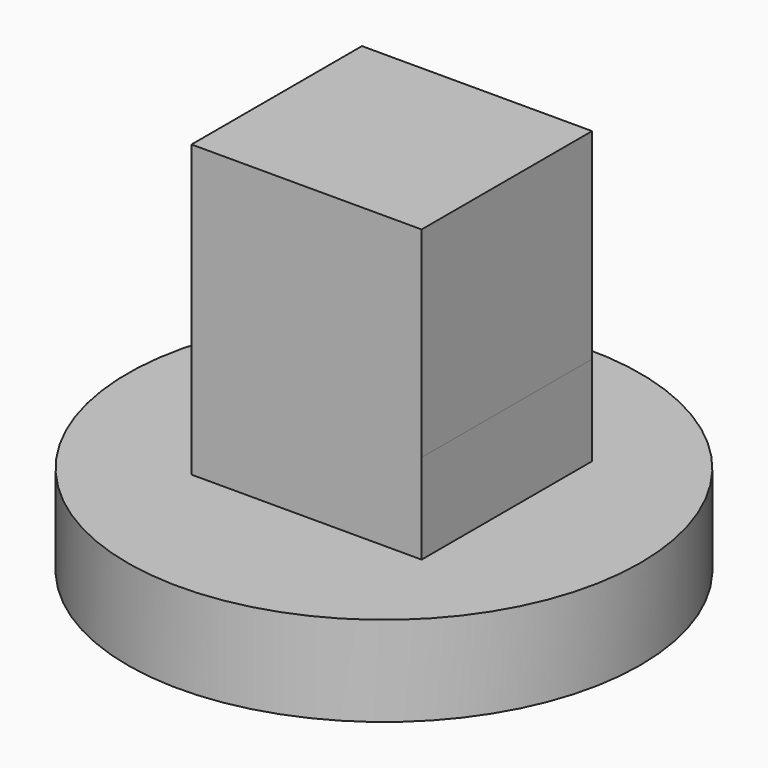
from build123d import *

# Parameters (mm, degrees)
F0_W      = 63.937053
F0_H      = 55.767305
F1_DEPTH  = 59.197046
F2_R      = 71.257359
F3_DEPTH  = 25
F1_FACE_W = 63.937054
F1_FACE_H = 59.197046
F4_DEPTH  = 25


with BuildPart() as f1:
    # F0 (on Front) → F1 (new body)
    with BuildSketch(Plane.XZ):
        with Locations((31.968526, 55.412087)):
            Rectangle(F0_W, F0_H)
    extrude(amount=F1_DEPTH)

    # F1_face (on face) → F4 (join)
    with BuildSketch(Plane(origin=(31.968527, -29.598523, 27.528435), x_dir=(1, 0, 0), z_dir=(0, 0, -1))):
        Rectangle(F1_FACE_W, F1_FACE_H)
    extrude(amount=F4_DEPTH)


with BuildPart() as f3:
    # F2 (on Top) → F3 (new body)
    with BuildSketch(Plane.XY):
        with Locations((27.683258, -26.959509)):
            Circle(F2_R)
    extrude(amount=-F3_DEPTH)


solid = Compound([f1.part, f3.part])
